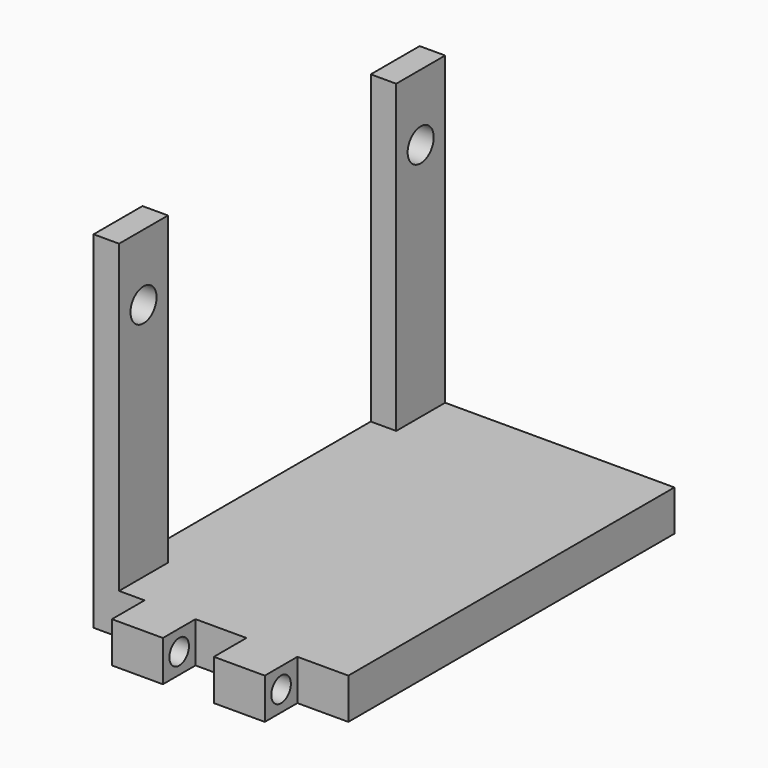
from build123d import *

# Parameters (mm, degrees)
PAD_DEPTH     = 4
SKETCH001_W   = 2.5
SKETCH001_H   = 6
PAD001_DEPTH  = 30
SKETCH002_R   = 1.2
SKETCH002_R_2 = 1.6
POCKET_DEPTH  = 25.001


with BuildPart() as part:
    # Sketch → Pad (new body)
    with BuildSketch(Plane.XY):
        Polygon((-7.5, -20.000802), (-2.5, -20.000802), (-2.5, -16.000802), (2.5, -16.000802), (2.5, -20.000802), (7.5, -20.000802), (7.5, -16.000802), (12.5, -16.000802), (12.5, 23.999198), (-12.5, 23.999198), (-12.5, -16.000802), (-7.5, -16.000802), align=None)
    extrude(amount=PAD_DEPTH)

    # Sketch001 → Pad001 (new body)
    with BuildSketch(Plane.XY.offset(4)):
        with Locations((-11.25, -13.000802)):
            Rectangle(SKETCH001_W, SKETCH001_H)
        with Locations((-11.25, 20.999198)):
            Rectangle(SKETCH001_W, SKETCH001_H)
    extrude(amount=PAD001_DEPTH)

    # Sketch002 → Pocket (cut, through all)
    with BuildSketch(Plane(origin=(-12.5, 0, 0), x_dir=(0, -1, 0), z_dir=(-1, 0, 0))):
        with Locations((18.000802, 2)):
            Circle(SKETCH002_R)
        with Locations((13.000802, 27.5)):
            Circle(SKETCH002_R_2)
        with Locations((-20.999198, 27.5)):
            Circle(SKETCH002_R_2)
    extrude(amount=-POCKET_DEPTH, mode=Mode.SUBTRACT)


solid = part.part
